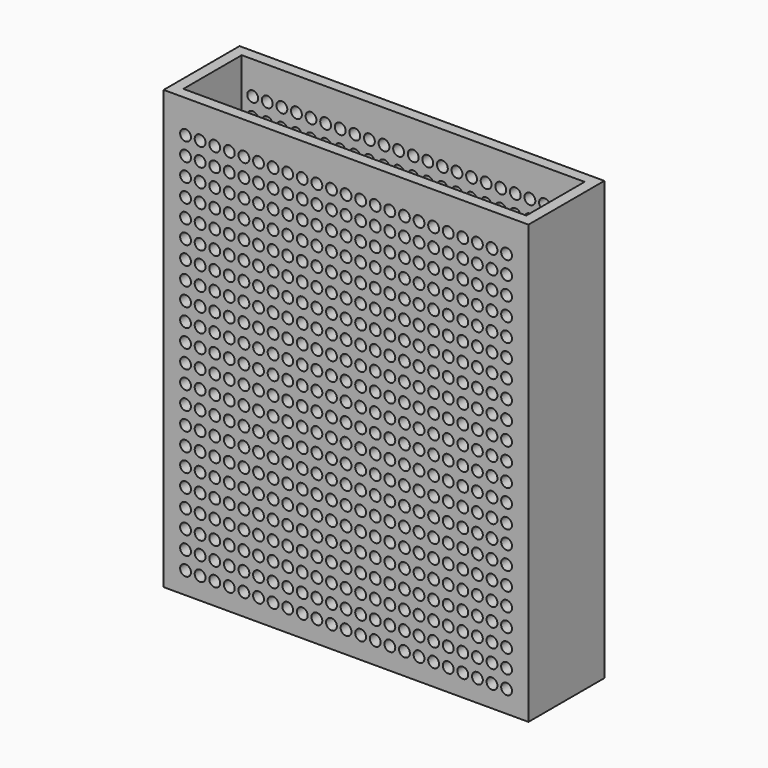
from build123d import *

# Parameters (mm, degrees)
F0_W     = 127
F0_H     = 152.4
F1_DEPTH = 33.02
F2_W     = 119.38
F2_H     = 25.4
F3_DEPTH = 147.32
F4_R     = 1.889217
F5_DEPTH = 33.021


with BuildPart() as f1:
    # F0 (on Front) → F1 (new body)
    with BuildSketch(Plane.XZ):
        with Locations((0, 76.2)):
            Rectangle(F0_W, F0_H)
    extrude(amount=F1_DEPTH)

    # F2 (on face) → F3 (cut)
    with BuildSketch(Plane.XY.offset(152.4)):
        with Locations((0, -16.51)):
            Rectangle(F2_W, F2_H)
    extrude(amount=-F3_DEPTH, mode=Mode.SUBTRACT)

    # F4 (on face) → F5 (cut, through all)
    with BuildSketch(Plane.XZ.offset(33.02)):
        with Locations((-55.88, 140.97)):
            Circle(F4_R)
        with Locations((-35.56, 128.27)):
            Circle(F4_R)
        with Locations((-45.72, 134.62)):
            Circle(F4_R)
        with Locations((-40.64, 128.27)):
            Circle(F4_R)
        with Locations((-50.8, 134.62)):
            Circle(F4_R)
        with Locations((35.56, 102.87)):
            Circle(F4_R)
        with Locations((50.8, 77.47)):
            Circle(F4_R)
        with Locations((45.72, 90.17)):
            Circle(F4_R)
        with Locations((40.64, 102.87)):
            Circle(F4_R)
        with Locations((-40.64, 64.77)):
            Circle(F4_R)
        with Locations((45.72, 140.97)):
            Circle(F4_R)
        with Locations((25.4, 140.97)):
            Circle(F4_R)
        with Locations((5.08, 140.97)):
            Circle(F4_R)
        with Locations((-35.56, 77.47)):
            Circle(F4_R)
        with Locations((-40.64, 102.87)):
            Circle(F4_R)
        with Locations((-40.64, 90.17)):
            Circle(F4_R)
        with Locations((-15.24, 140.97)):
            Circle(F4_R)
        with Locations((-15.24, 39.37)):
            Circle(F4_R)
        with Locations((-25.4, 26.67)):
            Circle(F4_R)
        with Locations((-15.24, 77.47)):
            Circle(F4_R)
        with Locations((25.4, 26.67)):
            Circle(F4_R)
        with Locations((20.32, 39.37)):
            Circle(F4_R)
        with Locations((15.24, 52.07)):
            Circle(F4_R)
        with Locations((10.16, 64.77)):
            Circle(F4_R)
        with Locations((20.32, 26.67)):
            Circle(F4_R)
        with Locations((15.24, 39.37)):
            Circle(F4_R)
        with Locations((10.16, 52.07)):
            Circle(F4_R)
        with Locations((35.56, 90.17)):
            Circle(F4_R)
        with Locations((25.4, 115.57)):
            Circle(F4_R)
        with Locations((25.4, 13.97)):
            Circle(F4_R)
        with Locations((50.8, 64.77)):
            Circle(F4_R)
        with Locations((45.72, 77.47)):
            Circle(F4_R)
        with Locations((40.64, 90.17)):
            Circle(F4_R)
        with Locations((45.72, 128.27)):
            Circle(F4_R)
        with Locations((25.4, 128.27)):
            Circle(F4_R)
        with Locations((5.08, 128.27)):
            Circle(F4_R)
        with Locations((-40.64, 13.97)):
            Circle(F4_R)
        with Locations((-40.64, 140.97)):
            Circle(F4_R)
        with Locations((-15.24, 90.17)):
            Circle(F4_R)
        with Locations((-50.8, 140.97)):
            Circle(F4_R)
        with Locations((-20.32, 52.07)):
            Circle(F4_R)
        with Locations((-5.08, 77.47)):
            Circle(F4_R)
        with Locations((-20.32, 140.97)):
            Circle(F4_R)
        with Locations((-10.16, 13.97)):
            Circle(F4_R)
        with Locations((-50.8, 102.87)):
            Circle(F4_R)
        with Locations((-10.16, 115.57)):
            Circle(F4_R)
        with Locations((-25.4, 128.27)):
            Circle(F4_R)
        with Locations((-50.8, 64.77)):
            Circle(F4_R)
        with Locations((-10.16, 90.17)):
            Circle(F4_R)
        with Locations((-5.08, 64.77)):
            Circle(F4_R)
        with Locations((-35.56, 140.97)):
            Circle(F4_R)
        with Locations((-10.16, 140.97)):
            Circle(F4_R)
        with Locations((-20.32, 90.17)):
            Circle(F4_R)
        with Locations((-5.08, 102.87)):
            Circle(F4_R)
        with Locations((-45.72, 64.77)):
            Circle(F4_R)
        with Locations((-35.56, 115.57)):
            Circle(F4_R)
        with Locations((-10.16, 128.27)):
            Circle(F4_R)
        with Locations((20.32, 52.07)):
            Circle(F4_R)
        with Locations((15.24, 64.77)):
            Circle(F4_R)
        with Locations((10.16, 77.47)):
            Circle(F4_R)
        with Locations((5.08, 90.17)):
            Circle(F4_R)
        with Locations((35.56, 115.57)):
            Circle(F4_R)
        with Locations((35.56, 13.97)):
            Circle(F4_R)
        with Locations((25.4, 39.37)):
            Circle(F4_R)
        with Locations((50.8, 90.17)):
            Circle(F4_R)
        with Locations((45.72, 102.87)):
            Circle(F4_R)
        with Locations((40.64, 115.57)):
            Circle(F4_R)
        with Locations((40.64, 13.97)):
            Circle(F4_R)
        with Locations((50.8, 128.27)):
            Circle(F4_R)
        with Locations((10.16, 128.27)):
            Circle(F4_R)
        with Locations((-25.4, 77.47)):
            Circle(F4_R)
        with Locations((-5.08, 26.67)):
            Circle(F4_R)
        with Locations((-40.64, 39.37)):
            Circle(F4_R)
        with Locations((-45.72, 128.27)):
            Circle(F4_R)
        with Locations((-5.08, 128.27)):
            Circle(F4_R)
        with Locations((-20.32, 39.37)):
            Circle(F4_R)
        with Locations((-5.08, 52.07)):
            Circle(F4_R)
        with Locations((-45.72, 39.37)):
            Circle(F4_R)
        with Locations((-15.24, 26.67)):
            Circle(F4_R)
        with Locations((-35.56, 26.67)):
            Circle(F4_R)
        with Locations((-50.8, 52.07)):
            Circle(F4_R)
        with Locations((20.32, 64.77)):
            Circle(F4_R)
        with Locations((15.24, 77.47)):
            Circle(F4_R)
        with Locations((10.16, 90.17)):
            Circle(F4_R)
        with Locations((5.08, 102.87)):
            Circle(F4_R)
        with Locations((35.56, 26.67)):
            Circle(F4_R)
        with Locations((25.4, 52.07)):
            Circle(F4_R)
        with Locations((50.8, 102.87)):
            Circle(F4_R)
        with Locations((45.72, 115.57)):
            Circle(F4_R)
        with Locations((45.72, 13.97)):
            Circle(F4_R)
        with Locations((40.64, 26.67)):
            Circle(F4_R)
        with Locations((50.8, 140.97)):
            Circle(F4_R)
        with Locations((10.16, 140.97)):
            Circle(F4_R)
        with Locations((-5.08, 13.97)):
            Circle(F4_R)
        with Locations((-50.8, 26.67)):
            Circle(F4_R)
        with Locations((-20.32, 13.97)):
            Circle(F4_R)
        with Locations((-35.56, 52.07)):
            Circle(F4_R)
        with Locations((-35.56, 90.17)):
            Circle(F4_R)
        with Locations((-15.24, 128.27)):
            Circle(F4_R)
        with Locations((-20.32, 115.57)):
            Circle(F4_R)
        with Locations((-40.64, 26.67)):
            Circle(F4_R)
        with Locations((-35.56, 64.77)):
            Circle(F4_R)
        with Locations((-25.4, 52.07)):
            Circle(F4_R)
        with Locations((20.32, 77.47)):
            Circle(F4_R)
        with Locations((15.24, 90.17)):
            Circle(F4_R)
        with Locations((10.16, 102.87)):
            Circle(F4_R)
        with Locations((5.08, 115.57)):
            Circle(F4_R)
        with Locations((35.56, 39.37)):
            Circle(F4_R)
        with Locations((25.4, 64.77)):
            Circle(F4_R)
        with Locations((50.8, 115.57)):
            Circle(F4_R)
        with Locations((50.8, 13.97)):
            Circle(F4_R)
        with Locations((45.72, 26.67)):
            Circle(F4_R)
        with Locations((40.64, 39.37)):
            Circle(F4_R)
        with Locations((35.56, 128.27)):
            Circle(F4_R)
        with Locations((15.24, 128.27)):
            Circle(F4_R)
        with Locations((-50.8, 13.97)):
            Circle(F4_R)
        with Locations((-15.24, 13.97)):
            Circle(F4_R)
        with Locations((-40.64, 77.47)):
            Circle(F4_R)
        with Locations((-25.4, 102.87)):
            Circle(F4_R)
        with Locations((-45.72, 13.97)):
            Circle(F4_R)
        with Locations((-50.8, 128.27)):
            Circle(F4_R)
        with Locations((-20.32, 64.77)):
            Circle(F4_R)
        with Locations((-45.72, 115.57)):
            Circle(F4_R)
        with Locations((-15.24, 115.57)):
            Circle(F4_R)
        with Locations((-10.16, 39.37)):
            Circle(F4_R)
        with Locations((-35.56, 102.87)):
            Circle(F4_R)
        with Locations((10.16, 115.57)):
            Circle(F4_R)
        with Locations((10.16, 13.97)):
            Circle(F4_R)
        with Locations((25.4, 77.47)):
            Circle(F4_R)
        with Locations((20.32, 90.17)):
            Circle(F4_R)
        with Locations((15.24, 102.87)):
            Circle(F4_R)
        with Locations((45.72, 39.37)):
            Circle(F4_R)
        with Locations((40.64, 52.07)):
            Circle(F4_R)
        with Locations((35.56, 52.07)):
            Circle(F4_R)
        with Locations((15.24, 140.97)):
            Circle(F4_R)
        with Locations((50.8, 26.67)):
            Circle(F4_R)
        with Locations((-50.8, 39.37)):
            Circle(F4_R)
        with Locations((35.56, 140.97)):
            Circle(F4_R)
        with Locations((-45.72, 26.67)):
            Circle(F4_R)
        with Locations((-45.72, 77.47)):
            Circle(F4_R)
        with Locations((-40.64, 52.07)):
            Circle(F4_R)
        with Locations((-20.32, 77.47)):
            Circle(F4_R)
        with Locations((-45.72, 90.17)):
            Circle(F4_R)
        with Locations((-15.24, 64.77)):
            Circle(F4_R)
        with Locations((-45.72, 52.07)):
            Circle(F4_R)
        with Locations((-20.32, 102.87)):
            Circle(F4_R)
        with Locations((-10.16, 52.07)):
            Circle(F4_R)
        with Locations((-25.4, 64.77)):
            Circle(F4_R)
        with Locations((-25.4, 140.97)):
            Circle(F4_R)
        with Locations((-10.16, 77.47)):
            Circle(F4_R)
        with Locations((45.72, 52.07)):
            Circle(F4_R)
        with Locations((40.64, 64.77)):
            Circle(F4_R)
        with Locations((35.56, 64.77)):
            Circle(F4_R)
        with Locations((20.32, 128.27)):
            Circle(F4_R)
        with Locations((50.8, 39.37)):
            Circle(F4_R)
        with Locations((40.64, 128.27)):
            Circle(F4_R)
        with Locations((-25.4, 90.17)):
            Circle(F4_R)
        with Locations((-25.4, 115.57)):
            Circle(F4_R)
        with Locations((-5.08, 140.97)):
            Circle(F4_R)
        with Locations((-5.08, 90.17)):
            Circle(F4_R)
        with Locations((15.24, 13.97)):
            Circle(F4_R)
        with Locations((10.16, 26.67)):
            Circle(F4_R)
        with Locations((25.4, 90.17)):
            Circle(F4_R)
        with Locations((20.32, 102.87)):
            Circle(F4_R)
        with Locations((15.24, 115.57)):
            Circle(F4_R)
        with Locations((-15.24, 102.87)):
            Circle(F4_R)
        with Locations((-10.16, 26.67)):
            Circle(F4_R)
        with Locations((-25.4, 13.97)):
            Circle(F4_R)
        with Locations((-35.56, 39.37)):
            Circle(F4_R)
        with Locations((-50.8, 77.47)):
            Circle(F4_R)
        with Locations((-35.56, 13.97)):
            Circle(F4_R)
        with Locations((-45.72, 102.87)):
            Circle(F4_R)
        with Locations((-20.32, 128.27)):
            Circle(F4_R)
        with Locations((40.64, 140.97)):
            Circle(F4_R)
        with Locations((-50.8, 115.57)):
            Circle(F4_R)
        with Locations((-5.08, 39.37)):
            Circle(F4_R)
        with Locations((-50.8, 90.17)):
            Circle(F4_R)
        with Locations((-5.08, 115.57)):
            Circle(F4_R)
        with Locations((-10.16, 64.77)):
            Circle(F4_R)
        with Locations((15.24, 26.67)):
            Circle(F4_R)
        with Locations((10.16, 39.37)):
            Circle(F4_R)
        with Locations((25.4, 102.87)):
            Circle(F4_R)
        with Locations((20.32, 115.57)):
            Circle(F4_R)
        with Locations((20.32, 13.97)):
            Circle(F4_R)
        with Locations((45.72, 64.77)):
            Circle(F4_R)
        with Locations((40.64, 77.47)):
            Circle(F4_R)
        with Locations((35.56, 77.47)):
            Circle(F4_R)
        with Locations((20.32, 140.97)):
            Circle(F4_R)
        with Locations((50.8, 52.07)):
            Circle(F4_R)
        with Locations((-40.64, 115.57)):
            Circle(F4_R)
        with Locations((-20.32, 26.67)):
            Circle(F4_R)
        with Locations((-10.16, 102.87)):
            Circle(F4_R)
        with Locations((-45.72, 140.97)):
            Circle(F4_R)
        with Locations((-25.4, 39.37)):
            Circle(F4_R)
        with Locations((-15.24, 52.07)):
            Circle(F4_R)
        with Locations((5.08, 77.47)):
            Circle(F4_R)
        with Locations((5.08, 64.77)):
            Circle(F4_R)
        with Locations((5.08, 13.97)):
            Circle(F4_R)
        with Locations((5.08, 26.67)):
            Circle(F4_R)
        with Locations((5.08, 39.37)):
            Circle(F4_R)
        with Locations((5.08, 52.07)):
            Circle(F4_R)
        with Locations((30.48, 115.57)):
            Circle(F4_R)
        with Locations((30.48, 13.97)):
            Circle(F4_R)
        with Locations((55.88, 64.77)):
            Circle(F4_R)
        with Locations((-50.8, 7.62)):
            Circle(F4_R)
        with Locations((-45.72, 109.22)):
            Circle(F4_R)
        with Locations((-55.88, 90.17)):
            Circle(F4_R)
        with Locations((-30.48, 71.12)):
            Circle(F4_R)
        with Locations((-55.88, 52.07)):
            Circle(F4_R)
        with Locations((-35.56, 134.62)):
            Circle(F4_R)
        with Locations((-30.48, 109.22)):
            Circle(F4_R)
        with Locations((30.48, 102.87)):
            Circle(F4_R)
        with Locations((55.88, 52.07)):
            Circle(F4_R)
        with Locations((-25.4, 96.52)):
            Circle(F4_R)
        with Locations((-10.16, 20.32)):
            Circle(F4_R)
        with Locations((-25.4, 109.22)):
            Circle(F4_R)
        with Locations((-20.32, 96.52)):
            Circle(F4_R)
        with Locations((-35.56, 109.22)):
            Circle(F4_R)
        with Locations((-30.48, 134.62)):
            Circle(F4_R)
        with Locations((-50.8, 33.02)):
            Circle(F4_R)
        with Locations((-30.48, 90.17)):
            Circle(F4_R)
        with Locations((-25.4, 45.72)):
            Circle(F4_R)
        with Locations((-30.48, 115.57)):
            Circle(F4_R)
        with Locations((20.32, 33.02)):
            Circle(F4_R)
        with Locations((15.24, 45.72)):
            Circle(F4_R)
        with Locations((10.16, 58.42)):
            Circle(F4_R)
        with Locations((35.56, 96.52)):
            Circle(F4_R)
        with Locations((30.48, 109.22)):
            Circle(F4_R)
        with Locations((30.48, 7.62)):
            Circle(F4_R)
        with Locations((25.4, 20.32)):
            Circle(F4_R)
        with Locations((50.8, 71.12)):
            Circle(F4_R)
        with Locations((45.72, 83.82)):
            Circle(F4_R)
        with Locations((40.64, 96.52)):
            Circle(F4_R)
        with Locations((45.72, 134.62)):
            Circle(F4_R)
        with Locations((25.4, 134.62)):
            Circle(F4_R)
        with Locations((5.08, 134.62)):
            Circle(F4_R)
        with Locations((55.88, 58.42)):
            Circle(F4_R)
        with Locations((-5.08, 83.82)):
            Circle(F4_R)
        with Locations((-40.64, 58.42)):
            Circle(F4_R)
        with Locations((-55.88, 128.27)):
            Circle(F4_R)
        with Locations((-45.72, 7.62)):
            Circle(F4_R)
        with Locations((-55.88, 134.62)):
            Circle(F4_R)
        with Locations((-55.88, 20.32)):
            Circle(F4_R)
        with Locations((-20.32, 58.42)):
            Circle(F4_R)
        with Locations((-45.72, 83.82)):
            Circle(F4_R)
        with Locations((-30.48, 13.97)):
            Circle(F4_R)
        with Locations((-50.8, 20.32)):
            Circle(F4_R)
        with Locations((-55.88, 39.37)):
            Circle(F4_R)
        with Locations((-30.48, 102.87)):
            Circle(F4_R)
        with Locations((-30.48, 128.27)):
            Circle(F4_R)
        with Locations((20.32, 45.72)):
            Circle(F4_R)
        with Locations((15.24, 58.42)):
            Circle(F4_R)
        with Locations((10.16, 71.12)):
            Circle(F4_R)
        with Locations((5.08, 83.82)):
            Circle(F4_R)
        with Locations((35.56, 109.22)):
            Circle(F4_R)
        with Locations((35.56, 7.62)):
            Circle(F4_R)
        with Locations((30.48, 20.32)):
            Circle(F4_R)
        with Locations((25.4, 33.02)):
            Circle(F4_R)
        with Locations((50.8, 83.82)):
            Circle(F4_R)
        with Locations((45.72, 96.52)):
            Circle(F4_R)
        with Locations((40.64, 109.22)):
            Circle(F4_R)
        with Locations((40.64, 7.62)):
            Circle(F4_R)
        with Locations((50.8, 121.92)):
            Circle(F4_R)
        with Locations((30.48, 121.92)):
            Circle(F4_R)
        with Locations((10.16, 121.92)):
            Circle(F4_R)
        with Locations((55.88, 71.12)):
            Circle(F4_R)
        with Locations((-40.64, 83.82)):
            Circle(F4_R)
        with Locations((-45.72, 121.92)):
            Circle(F4_R)
        with Locations((-5.08, 20.32)):
            Circle(F4_R)
        with Locations((-40.64, 33.02)):
            Circle(F4_R)
        with Locations((-15.24, 58.42)):
            Circle(F4_R)
        with Locations((-45.72, 33.02)):
            Circle(F4_R)
        with Locations((30.48, 26.67)):
            Circle(F4_R)
        with Locations((30.48, 128.27)):
            Circle(F4_R)
        with Locations((55.88, 77.47)):
            Circle(F4_R)
        with Locations((-40.64, 109.22)):
            Circle(F4_R)
        with Locations((-20.32, 134.62)):
            Circle(F4_R)
        with Locations((-10.16, 7.62)):
            Circle(F4_R)
        with Locations((-30.48, 140.97)):
            Circle(F4_R)
        with Locations((20.32, 58.42)):
            Circle(F4_R)
        with Locations((15.24, 71.12)):
            Circle(F4_R)
        with Locations((10.16, 83.82)):
            Circle(F4_R)
        with Locations((5.08, 96.52)):
            Circle(F4_R)
        with Locations((35.56, 20.32)):
            Circle(F4_R)
        with Locations((30.48, 33.02)):
            Circle(F4_R)
        with Locations((25.4, 45.72)):
            Circle(F4_R)
        with Locations((50.8, 96.52)):
            Circle(F4_R)
        with Locations((45.72, 109.22)):
            Circle(F4_R)
        with Locations((45.72, 7.62)):
            Circle(F4_R)
        with Locations((40.64, 20.32)):
            Circle(F4_R)
        with Locations((50.8, 134.62)):
            Circle(F4_R)
        with Locations((30.48, 134.62)):
            Circle(F4_R)
        with Locations((10.16, 134.62)):
            Circle(F4_R)
        with Locations((55.88, 83.82)):
            Circle(F4_R)
        with Locations((-15.24, 109.22)):
            Circle(F4_R)
        with Locations((-40.64, 7.62)):
            Circle(F4_R)
        with Locations((-40.64, 134.62)):
            Circle(F4_R)
        with Locations((-20.32, 121.92)):
            Circle(F4_R)
        with Locations((-10.16, 71.12)):
            Circle(F4_R)
        with Locations((-10.16, 58.42)):
            Circle(F4_R)
        with Locations((-55.88, 109.22)):
            Circle(F4_R)
        with Locations((-25.4, 134.62)):
            Circle(F4_R)
        with Locations((30.48, 39.37)):
            Circle(F4_R)
        with Locations((30.48, 140.97)):
            Circle(F4_R)
        with Locations((55.88, 90.17)):
            Circle(F4_R)
        with Locations((-55.88, 96.52)):
            Circle(F4_R)
        with Locations((-30.48, 77.47)):
            Circle(F4_R)
        with Locations((-5.08, 71.12)):
            Circle(F4_R)
        with Locations((-55.88, 121.92)):
            Circle(F4_R)
        with Locations((-25.4, 33.02)):
            Circle(F4_R)
        with Locations((-30.48, 7.62)):
            Circle(F4_R)
        with Locations((-55.88, 7.62)):
            Circle(F4_R)
        with Locations((-30.48, 39.37)):
            Circle(F4_R)
        with Locations((-5.08, 134.62)):
            Circle(F4_R)
        with Locations((-55.88, 77.47)):
            Circle(F4_R)
        with Locations((20.32, 71.12)):
            Circle(F4_R)
        with Locations((15.24, 83.82)):
            Circle(F4_R)
        with Locations((10.16, 96.52)):
            Circle(F4_R)
        with Locations((5.08, 109.22)):
            Circle(F4_R)
        with Locations((35.56, 33.02)):
            Circle(F4_R)
        with Locations((30.48, 45.72)):
            Circle(F4_R)
        with Locations((25.4, 58.42)):
            Circle(F4_R)
        with Locations((50.8, 109.22)):
            Circle(F4_R)
        with Locations((50.8, 7.62)):
            Circle(F4_R)
        with Locations((45.72, 20.32)):
            Circle(F4_R)
        with Locations((40.64, 33.02)):
            Circle(F4_R)
        with Locations((55.88, 121.92)):
            Circle(F4_R)
        with Locations((35.56, 121.92)):
            Circle(F4_R)
        with Locations((15.24, 121.92)):
            Circle(F4_R)
        with Locations((55.88, 96.52)):
            Circle(F4_R)
        with Locations((-40.64, 45.72)):
            Circle(F4_R)
        with Locations((-5.08, 45.72)):
            Circle(F4_R)
        with Locations((-30.48, 83.82)):
            Circle(F4_R)
        with Locations((-55.88, 13.97)):
            Circle(F4_R)
        with Locations((-55.88, 102.87)):
            Circle(F4_R)
        with Locations((-30.48, 20.32)):
            Circle(F4_R)
        with Locations((-15.24, 45.72)):
            Circle(F4_R)
        with Locations((-55.88, 33.02)):
            Circle(F4_R)
        with Locations((-55.88, 58.42)):
            Circle(F4_R)
        with Locations((-40.64, 121.92)):
            Circle(F4_R)
        with Locations((30.48, 52.07)):
            Circle(F4_R)
        with Locations((55.88, 128.27)):
            Circle(F4_R)
        with Locations((55.88, 102.87)):
            Circle(F4_R)
        with Locations((-15.24, 20.32)):
            Circle(F4_R)
        with Locations((-55.88, 115.57)):
            Circle(F4_R)
        with Locations((-50.8, 109.22)):
            Circle(F4_R)
        with Locations((-35.56, 7.62)):
            Circle(F4_R)
        with Locations((-25.4, 20.32)):
            Circle(F4_R)
        with Locations((-55.88, 45.72)):
            Circle(F4_R)
        with Locations((-50.8, 71.12)):
            Circle(F4_R)
        with Locations((-45.72, 71.12)):
            Circle(F4_R)
        with Locations((10.16, 109.22)):
            Circle(F4_R)
        with Locations((10.16, 7.62)):
            Circle(F4_R)
        with Locations((30.48, 58.42)):
            Circle(F4_R)
        with Locations((25.4, 71.12)):
            Circle(F4_R)
        with Locations((20.32, 83.82)):
            Circle(F4_R)
        with Locations((15.24, 96.52)):
            Circle(F4_R)
        with Locations((45.72, 33.02)):
            Circle(F4_R)
        with Locations((40.64, 45.72)):
            Circle(F4_R)
        with Locations((35.56, 45.72)):
            Circle(F4_R)
        with Locations((15.24, 134.62)):
            Circle(F4_R)
        with Locations((55.88, 109.22)):
            Circle(F4_R)
        with Locations((55.88, 7.62)):
            Circle(F4_R)
        with Locations((50.8, 20.32)):
            Circle(F4_R)
        with Locations((-10.16, 33.02)):
            Circle(F4_R)
        with Locations((-20.32, 7.62)):
            Circle(F4_R)
        with Locations((55.88, 134.62)):
            Circle(F4_R)
        with Locations((35.56, 134.62)):
            Circle(F4_R)
        with Locations((-45.72, 20.32)):
            Circle(F4_R)
        with Locations((-10.16, 45.72)):
            Circle(F4_R)
        with Locations((-20.32, 45.72)):
            Circle(F4_R)
        with Locations((-35.56, 71.12)):
            Circle(F4_R)
        with Locations((-50.8, 58.42)):
            Circle(F4_R)
        with Locations((-20.32, 33.02)):
            Circle(F4_R)
        with Locations((-35.56, 33.02)):
            Circle(F4_R)
        with Locations((-45.72, 96.52)):
            Circle(F4_R)
        with Locations((30.48, 64.77)):
            Circle(F4_R)
        with Locations((55.88, 115.57)):
            Circle(F4_R)
        with Locations((55.88, 13.97)):
            Circle(F4_R)
        with Locations((-40.64, 96.52)):
            Circle(F4_R)
        with Locations((55.88, 140.97)):
            Circle(F4_R)
        with Locations((-20.32, 83.82)):
            Circle(F4_R)
        with Locations((-15.24, 33.02)):
            Circle(F4_R)
        with Locations((-45.72, 45.72)):
            Circle(F4_R)
        with Locations((-15.24, 71.12)):
            Circle(F4_R)
        with Locations((-15.24, 83.82)):
            Circle(F4_R)
        with Locations((-30.48, 45.72)):
            Circle(F4_R)
        with Locations((-15.24, 134.62)):
            Circle(F4_R)
        with Locations((30.48, 71.12)):
            Circle(F4_R)
        with Locations((25.4, 83.82)):
            Circle(F4_R)
        with Locations((20.32, 96.52)):
            Circle(F4_R)
        with Locations((15.24, 109.22)):
            Circle(F4_R)
        with Locations((45.72, 45.72)):
            Circle(F4_R)
        with Locations((40.64, 58.42)):
            Circle(F4_R)
        with Locations((35.56, 58.42)):
            Circle(F4_R)
        with Locations((20.32, 121.92)):
            Circle(F4_R)
        with Locations((0, 121.92)):
            Circle(F4_R)
        with Locations((55.88, 20.32)):
            Circle(F4_R)
        with Locations((50.8, 33.02)):
            Circle(F4_R)
        with Locations((-40.64, 71.12)):
            Circle(F4_R)
        with Locations((40.64, 121.92)):
            Circle(F4_R)
        with Locations((-25.4, 71.12)):
            Circle(F4_R)
        with Locations((-35.56, 58.42)):
            Circle(F4_R)
        with Locations((-15.24, 121.92)):
            Circle(F4_R)
        with Locations((-55.88, 26.67)):
            Circle(F4_R)
        with Locations((-10.16, 83.82)):
            Circle(F4_R)
        with Locations((15.24, 7.62)):
            Circle(F4_R)
        with Locations((10.16, 20.32)):
            Circle(F4_R)
        with Locations((-5.08, 109.22)):
            Circle(F4_R)
        with Locations((-25.4, 58.42)):
            Circle(F4_R)
        with Locations((-10.16, 121.92)):
            Circle(F4_R)
        with Locations((0, 128.27)):
            Circle(F4_R)
        with Locations((55.88, 26.67)):
            Circle(F4_R)
        with Locations((-45.72, 58.42)):
            Circle(F4_R)
        with Locations((-5.08, 33.02)):
            Circle(F4_R)
        with Locations((-30.48, 58.42)):
            Circle(F4_R)
        with Locations((-20.32, 20.32)):
            Circle(F4_R)
        with Locations((-25.4, 83.82)):
            Circle(F4_R)
        with Locations((-30.48, 52.07)):
            Circle(F4_R)
        with Locations((-5.08, 96.52)):
            Circle(F4_R)
        with Locations((-10.16, 96.52)):
            Circle(F4_R)
        with Locations((-20.32, 71.12)):
            Circle(F4_R)
        with Locations((-30.48, 121.92)):
            Circle(F4_R)
        with Locations((30.48, 77.47)):
            Circle(F4_R)
        with Locations((20.32, 134.62)):
            Circle(F4_R)
        with Locations((0, 134.62)):
            Circle(F4_R)
        with Locations((55.88, 33.02)):
            Circle(F4_R)
        with Locations((50.8, 45.72)):
            Circle(F4_R)
        with Locations((-50.8, 45.72)):
            Circle(F4_R)
        with Locations((-40.64, 20.32)):
            Circle(F4_R)
        with Locations((-15.24, 7.62)):
            Circle(F4_R)
        with Locations((40.64, 134.62)):
            Circle(F4_R)
        with Locations((-35.56, 45.72)):
            Circle(F4_R)
        with Locations((-35.56, 121.92)):
            Circle(F4_R)
        with Locations((-50.8, 96.52)):
            Circle(F4_R)
        with Locations((-35.56, 20.32)):
            Circle(F4_R)
        with Locations((-55.88, 71.12)):
            Circle(F4_R)
        with Locations((15.24, 20.32)):
            Circle(F4_R)
        with Locations((10.16, 33.02)):
            Circle(F4_R)
        with Locations((30.48, 83.82)):
            Circle(F4_R)
        with Locations((25.4, 96.52)):
            Circle(F4_R)
        with Locations((20.32, 109.22)):
            Circle(F4_R)
        with Locations((20.32, 7.62)):
            Circle(F4_R)
        with Locations((45.72, 58.42)):
            Circle(F4_R)
        with Locations((40.64, 71.12)):
            Circle(F4_R)
        with Locations((35.56, 71.12)):
            Circle(F4_R)
        with Locations((-25.4, 121.92)):
            Circle(F4_R)
        with Locations((-35.56, 83.82)):
            Circle(F4_R)
        with Locations((-10.16, 109.22)):
            Circle(F4_R)
        with Locations((-30.48, 64.77)):
            Circle(F4_R)
        with Locations((-55.88, 83.82)):
            Circle(F4_R)
        with Locations((-55.88, 64.77)):
            Circle(F4_R)
        with Locations((-30.48, 33.02)):
            Circle(F4_R)
        with Locations((-30.48, 26.67)):
            Circle(F4_R)
        with Locations((-50.8, 83.82)):
            Circle(F4_R)
        with Locations((30.48, 90.17)):
            Circle(F4_R)
        with Locations((0, 140.97)):
            Circle(F4_R)
        with Locations((55.88, 39.37)):
            Circle(F4_R)
        with Locations((-15.24, 96.52)):
            Circle(F4_R)
        with Locations((-30.48, 96.52)):
            Circle(F4_R)
        with Locations((-25.4, 7.62)):
            Circle(F4_R)
        with Locations((-10.16, 134.62)):
            Circle(F4_R)
        with Locations((-35.56, 96.52)):
            Circle(F4_R)
        with Locations((-50.8, 121.92)):
            Circle(F4_R)
        with Locations((15.24, 33.02)):
            Circle(F4_R)
        with Locations((10.16, 45.72)):
            Circle(F4_R)
        with Locations((30.48, 96.52)):
            Circle(F4_R)
        with Locations((25.4, 109.22)):
            Circle(F4_R)
        with Locations((25.4, 7.62)):
            Circle(F4_R)
        with Locations((20.32, 20.32)):
            Circle(F4_R)
        with Locations((45.72, 71.12)):
            Circle(F4_R)
        with Locations((40.64, 83.82)):
            Circle(F4_R)
        with Locations((35.56, 83.82)):
            Circle(F4_R)
        with Locations((25.4, 121.92)):
            Circle(F4_R)
        with Locations((5.08, 121.92)):
            Circle(F4_R)
        with Locations((55.88, 45.72)):
            Circle(F4_R)
        with Locations((50.8, 58.42)):
            Circle(F4_R)
        with Locations((-5.08, 121.92)):
            Circle(F4_R)
        with Locations((-20.32, 109.22)):
            Circle(F4_R)
        with Locations((-5.08, 58.42)):
            Circle(F4_R)
        with Locations((45.72, 121.92)):
            Circle(F4_R)
        with Locations((5.08, 71.12)):
            Circle(F4_R)
        with Locations((0, 20.32)):
            Circle(F4_R)
        with Locations((0, 26.67)):
            Circle(F4_R)
        with Locations((5.08, 20.32)):
            Circle(F4_R)
        with Locations((5.08, 33.02)):
            Circle(F4_R)
        with Locations((5.08, 45.72)):
            Circle(F4_R)
        with Locations((5.08, 58.42)):
            Circle(F4_R)
        with Locations((-5.08, 7.62)):
            Circle(F4_R)
        with Locations((0, 13.97)):
            Circle(F4_R)
        with Locations((5.08, 7.62)):
            Circle(F4_R)
        with Locations((0, 102.87)):
            Circle(F4_R)
        with Locations((0, 96.52)):
            Circle(F4_R)
        with Locations((0, 90.17)):
            Circle(F4_R)
        with Locations((0, 83.82)):
            Circle(F4_R)
        with Locations((0, 77.47)):
            Circle(F4_R)
        with Locations((0, 71.12)):
            Circle(F4_R)
        with Locations((0, 64.77)):
            Circle(F4_R)
        with Locations((0, 58.42)):
            Circle(F4_R)
        with Locations((0, 52.07)):
            Circle(F4_R)
        with Locations((0, 45.72)):
            Circle(F4_R)
        with Locations((0, 39.37)):
            Circle(F4_R)
        with Locations((0, 109.22)):
            Circle(F4_R)
        with Locations((0, 115.57)):
            Circle(F4_R)
        with Locations((0, 33.02)):
            Circle(F4_R)
        with Locations((0, 7.62)):
            Circle(F4_R)
    extrude(amount=-F5_DEPTH, mode=Mode.SUBTRACT)


solid = f1.part
